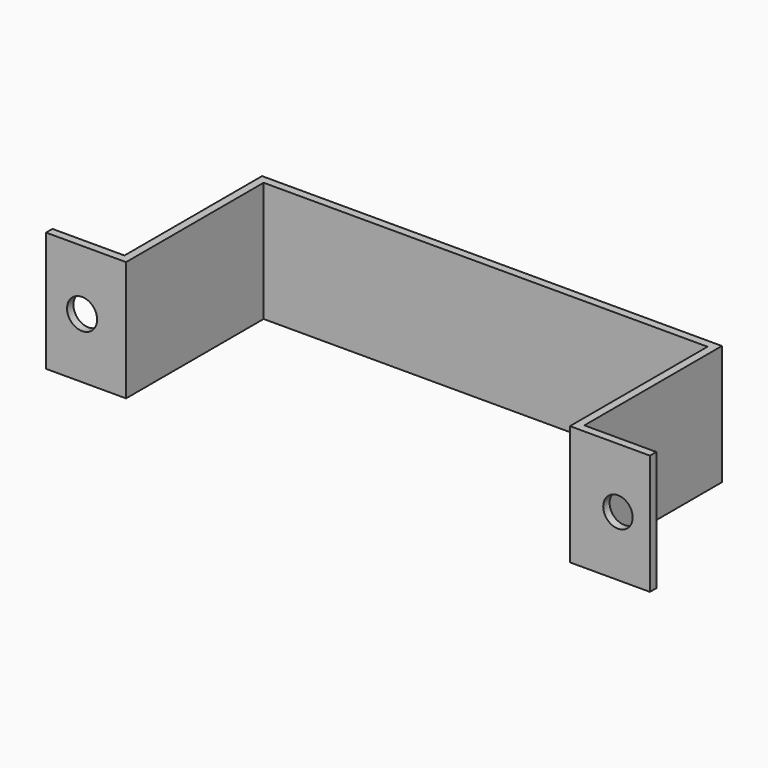
from build123d import *

# Parameters (mm, degrees)
F1_DEPTH = 30
F2_R     = 3.762361
F2_R_2   = 3.683823
F3_DEPTH = 2.001


with BuildPart() as f1:
    # F0 (on Top) → F1 (new body)
    with BuildSketch(Plane.XY):
        Polygon((-11.340288, 22.524219), (-29.340288, 22.524219), (-29.340288, 20.524219), (-9.340288, 20.524219), (-9.340288, 63.524219), (101.659712, 63.524219), (101.659712, 20.524219), (121.659712, 20.524219), (121.659712, 22.524219), (103.659712, 22.524219), (103.659712, 65.524219), (-11.340288, 65.524219), align=None)
    extrude(amount=F1_DEPTH)

    # F2 (on face) → F3 (cut, through all)
    with BuildSketch(Plane(origin=(0, 22.524219, 0), x_dir=(-1, 0, 0), z_dir=(0, 1, 0))):
        with Locations((20.340288, 15)):
            Circle(F2_R)
        with Locations((-113.659712, 15)):
            Circle(F2_R_2)
    extrude(amount=-F3_DEPTH, mode=Mode.SUBTRACT)


solid = f1.part
